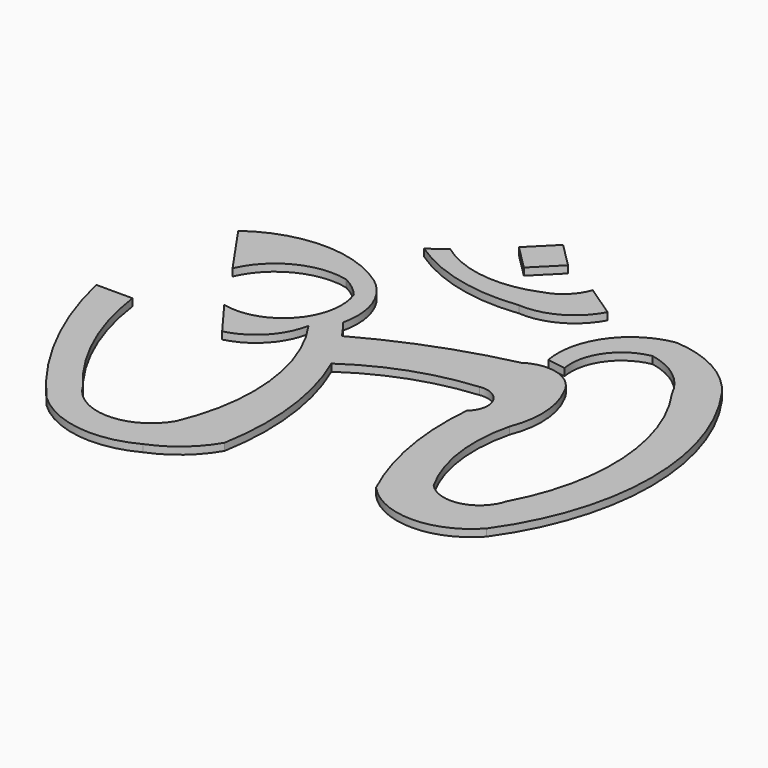
from build123d import *

# Parameters (mm, degrees)
F1_DEPTH = 1.5875


with BuildPart() as f1:
    # F0 (on Top) → F1 (new body)
    with BuildSketch(Plane.XY):
        with BuildLine():
            ThreePointArc((-25.127215, 35.560159), (-39.992299, 40.306943), (-54.809656, 35.413209))
            Line((-54.809656, 35.413209), (-46.874747, 23.951673))
            ThreePointArc((-46.874747, 23.951673), (-39.614743, 31.630301), (-29.127157, 32.926274))
            ThreePointArc((-29.127157, 32.926274), (-26.625232, 31.325835), (-24.498459, 29.252704))
            ThreePointArc((-24.498459, 29.252704), (-26.995494, 16.372745), (-39.527608, 12.490136))
            Line((-39.527608, 12.490136), (-33.649894, 4.555226))
            ThreePointArc((-33.649894, 4.555226), (-26.917365, 8.488497), (-23.363902, 15.428992))
            ThreePointArc((-23.363902, 15.428992), (-15.768011, -4.867331), (-18.955619, -26.302756))
            ThreePointArc((-18.955619, -26.302756), (-29.241613, -32.256393), (-39.527608, -26.302756))
            ThreePointArc((-39.527608, -26.302756), (-48.653695, -11.86738), (-53.34023, 4.555226))
            Line((-53.34023, 4.555226), (-61.275139, 4.555226))
            ThreePointArc((-61.275139, 4.555226), (-53.942716, -15.610802), (-41.878691, -33.35601))
            ThreePointArc((-41.878691, -33.35601), (-30.496456, -38.802424), (-18.073961, -36.588751))
            ThreePointArc((-18.073961, -36.588751), (-12.02438, -32.91569), (-7.494083, -27.478298))
            ThreePointArc((-7.494083, -27.478298), (-6.967523, -9.97835), (-11.5606, 6.916297))
            ThreePointArc((-11.5606, 6.916297), (-13.850852, 11.575298), (-16.538777, 16.016762))
            ThreePointArc((-16.538777, 16.016762), (-17.996995, 18.106157), (-19.543389, 20.13116))
            ThreePointArc((-19.543389, 20.13116), (-20.029561, 28.680118), (-25.127215, 35.560159))
        make_face()
        with BuildLine():
            ThreePointArc((13.665677, 27.478298), (-1.843481, 22.81991), (-16.538777, 16.016762))
            ThreePointArc((-16.538777, 16.016762), (-13.850852, 11.575298), (-11.5606, 6.916297))
            ThreePointArc((-11.5606, 6.916297), (0.45489, 13.123196), (13.665677, 16.016762))
            ThreePointArc((13.665677, 16.016762), (18.740391, 13.371578), (17.486192, 7.787967))
            ThreePointArc((17.486192, 7.787967), (18.20359, -8.607254), (23.179675, -24.245557))
            ThreePointArc((23.179675, -24.245557), (35.321096, -29.634071), (47.462517, -24.245557))
            ThreePointArc((47.462517, -24.245557), (57.771938, 8.030693), (47.462517, 40.306943))
            ThreePointArc((47.462517, 40.306943), (39.673783, 47.119097), (29.719274, 49.943556))
            ThreePointArc((29.719274, 49.943556), (19.228477, 43.341558), (16.617211, 31.224443))
            Line((16.617211, 31.224443), (20.683297, 30.613916))
            ThreePointArc((20.683297, 30.613916), (22.524311, 38.934634), (29.719274, 43.501491))
            ThreePointArc((29.719274, 43.501491), (36.367843, 40.471752), (40.940933, 34.773538))
            ThreePointArc((40.940933, 34.773538), (49.388324, 10.666962), (43.850252, -14.269261))
            ThreePointArc((43.850252, -14.269261), (38.081146, -19.834016), (30.417153, -17.48619))
            ThreePointArc((30.417153, -17.48619), (26.205498, -5.190741), (26.890527, 7.787967))
            ThreePointArc((26.890527, 7.787967), (28.225768, 15.915074), (26.00887, 23.847168))
            ThreePointArc((26.00887, 23.847168), (20.683297, 28.538595), (13.665677, 27.478298))
        make_face()
        with BuildLine():
            Line((-22.2419, 52.856321), (-25.774644, 50.154814))
            ThreePointArc((-25.774644, 50.154814), (-13.452681, 44.699859), (0, 43.917107))
            ThreePointArc((0, 43.917107), (7.851334, 45.662107), (13.491586, 51.395869))
            Line((13.491586, 51.395869), (6.426098, 56.175467))
            ThreePointArc((6.426098, 56.175467), (3.93859, 52.389457), (0, 50.151364))
            ThreePointArc((0, 50.151364), (-11.475392, 48.589389), (-22.2419, 52.856321))
        make_face()
        Polygon((-13.452681, 60.749595), (-8.064527, 55.361442), (-2.676373, 60.749595), (-8.064527, 66.137749), align=None)
    extrude(amount=F1_DEPTH)


solid = f1.part
